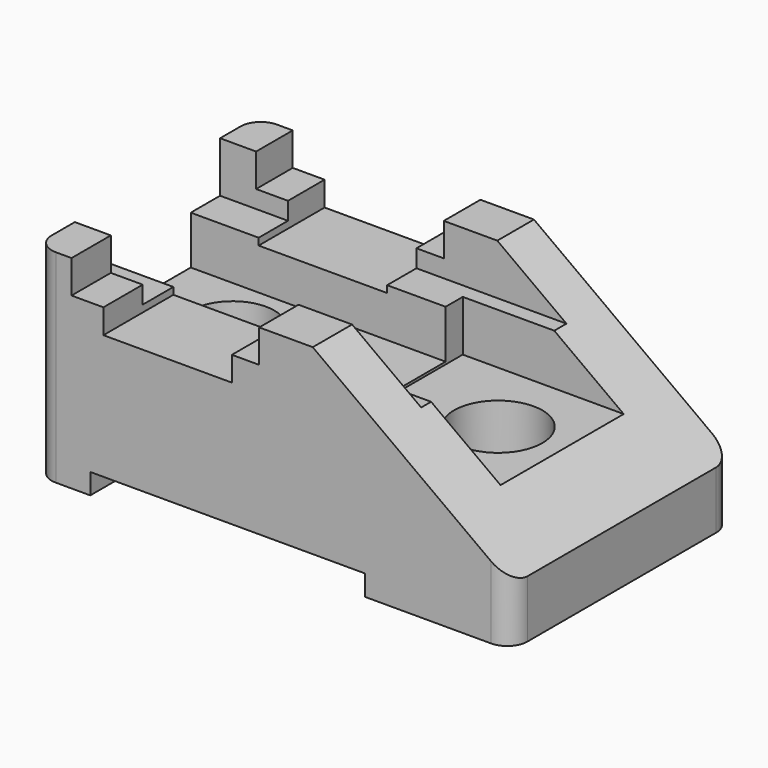
from build123d import *

# Parameters (mm, degrees)
F0_W      = 59.5793165267
F0_H      = 34.6220657229
F1_DEPTH  = 25.4
F3_R      = 5.5412544658
F4_DEPTH  = 25.401
F5_W      = 27.6657380164
F5_H      = 19.280704204
F5_R      = 5.5412544658
F6_DEPTH  = 12.7
F8_DEPTH  = 34.6230657229
F9_W      = 16.0899236798
F9_H      = 3.0700527132
F9_W_2    = 34.4220511615
F9_H_2    = 2.5833016261
F10_DEPTH = 34.6230657229
F11_W     = 13.3519666269
F11_H     = 6.0501107946
F12_DEPTH = 59.5803165267
F2_R      = 5.219783031
F14_DEPTH = 7.62
F13_R     = 5.219783031
F15_DEPTH = 20.32
F16_R     = 2.54


with BuildPart() as f1:
    # F0 (on Top) → F1 (new body)
    with BuildSketch(Plane.XY):
        with Locations((29.7896582633, 17.3110328615)):
            Rectangle(F0_W, F0_H)
    extrude(amount=F1_DEPTH)

    # F3 (on face) → F4 (cut, through all)
    with BuildSketch(Plane.XY.offset(25.4)):
        with Locations((44.1531315446, 17.2270387411)):
            Circle(F3_R)
    extrude(amount=-F4_DEPTH, mode=Mode.SUBTRACT)

    # F5 (on face) → F6 (cut)
    with BuildSketch(Plane.XY.offset(25.4)):
        with Locations((45.7464475185, 17.3452093732)):
            Rectangle(F5_W, F5_H)
        with Locations((44.1531315446, 17.2270387411)):
            Circle(F5_R, mode=Mode.SUBTRACT)
    extrude(amount=-F6_DEPTH, mode=Mode.SUBTRACT)

    # F7 (on face) → F8 (cut, through all)
    with BuildSketch(Plane.XZ):
        Polygon((59.5793165267, 25.4), (34.7196712036, 25.4), (59.5793165267, 7.1992731339), align=None)
    extrude(amount=-F8_DEPTH, mode=Mode.SUBTRACT)

    # F9 (on face) → F10 (cut, through all)
    with BuildSketch(Plane.XZ):
        Polygon((28.0164182186, 25.4), (4.5102257282, 25.4), (4.5102257282, 21.2667640299), (8.5027217865, 21.2667640299), (24.5926454663, 21.2667640299), (28.0164182186, 21.2667640299), align=None)
        with Locations((16.5476836264, 19.7317376733)):
            Rectangle(F9_W, F9_H)
        with Locations((24.0708049387, 1.2916508131)):
            Rectangle(F9_W_2, F9_H_2)
    extrude(amount=-F10_DEPTH, mode=Mode.SUBTRACT)

    # F11 (on face) → F12 (cut, through all)
    with BuildSketch(Plane(origin=(0, 0, 0), x_dir=(0, -1, 0), z_dir=(-1, 0, 0))):
        Polygon((-6.1496212147, 25.4), (-28.8896895945, 25.4), (-28.8896895945, 19.0630443394), (-24.2999512702, 19.0630443394), (-10.9479846433, 19.0630443394), (-6.1496212147, 19.0630443394), align=None)
        with Locations((-17.6239679568, 16.0379889421)):
            Rectangle(F11_W, F11_H)
    extrude(amount=-F12_DEPTH, mode=Mode.SUBTRACT)

    # F2 (on face) → F14 (cut)
    with BuildSketch(Plane.XY.offset(25.4)):
        with Locations((10.909142904, 17.2067172825)):
            Circle(F2_R)
    extrude(amount=-F14_DEPTH, mode=Mode.SUBTRACT)

    # F13 (on face) → F15 (cut)
    with BuildSketch(Plane.XY.offset(25.4)):
        with Locations((10.909142904, 17.2067172825)):
            Circle(F13_R)
    extrude(amount=-F15_DEPTH, mode=Mode.SUBTRACT)

    # F16
    f16_edges = [f1.edges().sort_by_distance(p)[0] for p in [
        (0, 0, 12.7),
        (59.579317, 0, 3.599637),
        (59.579317, 34.622066, 3.599637),
        (0, 34.622066, 12.7),
    ]]
    fillet(f16_edges, radius=F16_R)


solid = f1.part
